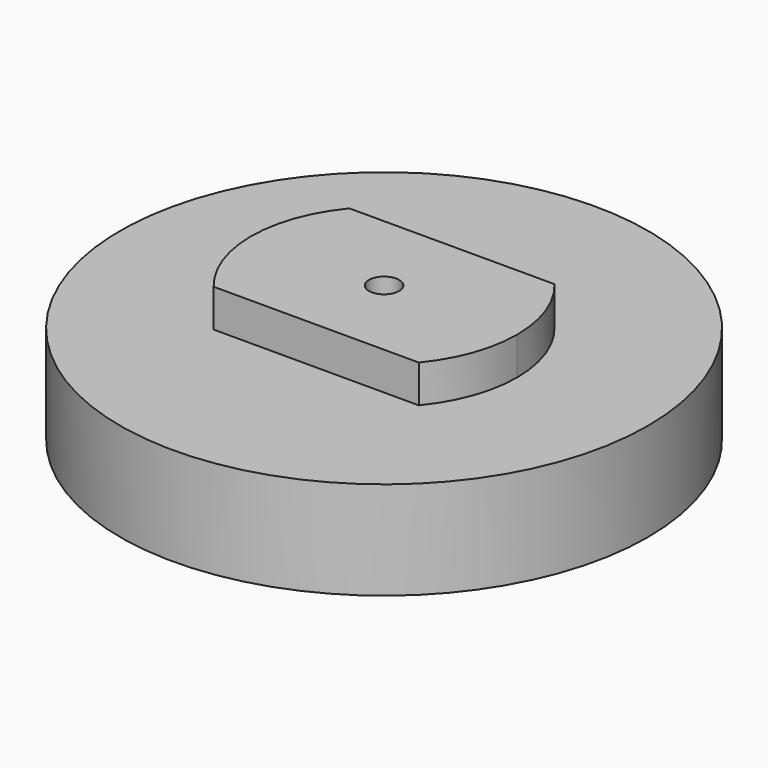
from build123d import *

# Parameters (mm, degrees)
F0_R      = 35
F1_DEPTH  = 13
F3_DEPTH  = 12.5
F5_DEPTH  = 5
F6_R      = 2
F7_DEPTH  = 3
F8_R      = 1
F9_DEPTH  = 25
F10_W     = 10
F10_H     = 5
F11_DEPTH = 25
F12_W     = 1.986437419
F12_H     = 4.0204126202
F13_DEPTH = 2


with BuildPart() as f1:
    # F0 (on Top) → F1 (new body)
    with BuildSketch(Plane.XY):
        Circle(F0_R)
    extrude(amount=F1_DEPTH)

    # F2 (on face) → F3 (cut)
    with BuildSketch(Plane(origin=(0, 0, 0), x_dir=(1, 0, 0), z_dir=(0, 0, -1))):
        Polygon((14.4, 28.3542412236), (-14.4, 28.3542412236), (-14.4, 0), (0, 0), (14.4, 0), align=None)
        Polygon((0, 0), (-14.4, 0), (-14.4, -28.8457587764), (14.4, -28.8457587764), (14.4, 0), align=None)
    extrude(amount=-F3_DEPTH, mode=Mode.SUBTRACT)

    # F4 (on face) → F5 (join)
    with BuildSketch(Plane.XY.offset(13)):
        with BuildLine():
            ThreePointArc((13.6, -11.25), (16.6066628195, -5.978398615), (17.65, 0))
            ThreePointArc((17.65, 0), (16.6066628195, 5.978398615), (13.6, 11.25))
            Line((13.6, 11.25), (-13.6, 11.25))
            ThreePointArc((-13.6, 11.25), (-17.65, 0), (-13.6, -11.25))
            Line((-13.6, -11.25), (0, -11.25))
            Line((0, -11.25), (13.6, -11.25))
        make_face()
    extrude(amount=F5_DEPTH)

    # F6 (on face) → F7 (cut)
    with BuildSketch(Plane.XY.offset(18)):
        Circle(F6_R)
    extrude(amount=-F7_DEPTH, mode=Mode.SUBTRACT)

    # F8 (on face) → F9 (cut)
    with BuildSketch(Plane.XY.offset(15)):
        Circle(F8_R)
    extrude(amount=-F9_DEPTH, mode=Mode.SUBTRACT)

    # F10 (on face) → F11 (cut)
    with BuildSketch(Plane.YZ.offset(-14.4)):
        with Locations((-0.0396446604, 5.9795873798)):
            Rectangle(F10_W, F10_H)
    extrude(amount=-F11_DEPTH, mode=Mode.SUBTRACT)

    # F12 (on face) → F13 (cut)
    with BuildSketch(Plane.YZ.offset(-14.4)):
        with Locations((0.2311340359, 10.4897936899)):
            Rectangle(F12_W, F12_H)
    extrude(amount=-F13_DEPTH, mode=Mode.SUBTRACT)


solid = f1.part
